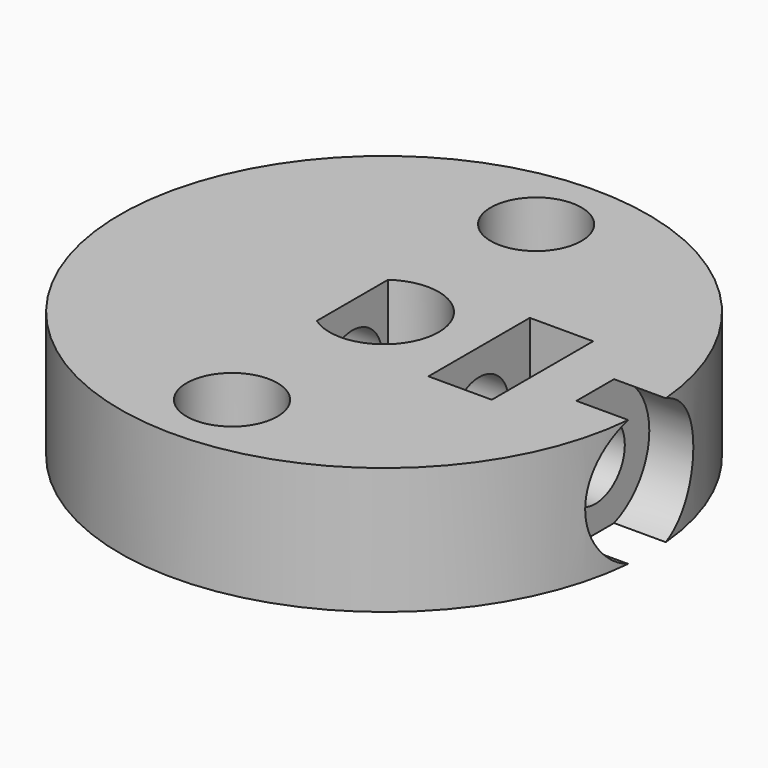
from build123d import *

# Parameters (mm, degrees)
F0_R     = 12.5
F0_R_2   = 2.15
F0_W     = 3
F0_H     = 6
F1_DEPTH = 6
F0_R_3   = 1.65
F2_DEPTH = 1
F3_R     = 1.75
F4_DEPTH = 12.5
F5_START = 10
F3_R_2   = 3.2
F5_DEPTH = 15


with BuildPart() as f1:
    # F0 (on Top) → F1 (new body)
    with BuildSketch(Plane.XY):
        Circle(F0_R)
        with Locations((0, -9)):
            Circle(F0_R_2, mode=Mode.SUBTRACT)
        with BuildLine():
            ThreePointArc((-1.5, 2.1052850163), (1.1842138743, 2.2977951388), (2.585, 0))
            ThreePointArc((2.585, 0), (1.1842138743, -2.2977951388), (-1.5, -2.1052850163))
            ThreePointArc((-1.5, -2.1052850163), (-2.585, 0), (-1.5, 2.1052850163))
        make_face(mode=Mode.SUBTRACT)
        with Locations((6, 0)):
            Rectangle(F0_W, F0_H, mode=Mode.SUBTRACT)
        with Locations((0, 9)):
            Circle(F0_R_2, mode=Mode.SUBTRACT)
        Circle(F0_R)
        with Locations((0, -9)):
            Circle(F0_R_2, mode=Mode.SUBTRACT)
        with BuildLine():
            ThreePointArc((-1.5, 2.1052850163), (1.1842138743, 2.2977951388), (2.585, 0))
            ThreePointArc((2.585, 0), (1.1842138743, -2.2977951388), (-1.5, -2.1052850163))
            ThreePointArc((-1.5, -2.1052850163), (-2.585, 0), (-1.5, 2.1052850163))
        make_face(mode=Mode.SUBTRACT)
        with Locations((6, 0)):
            Rectangle(F0_W, F0_H, mode=Mode.SUBTRACT)
        with Locations((0, 9)):
            Circle(F0_R_2, mode=Mode.SUBTRACT)
        with BuildLine():
            Line((-1.5, -2.1052850163), (-1.5, 2.1052850163))
            ThreePointArc((-1.5, 2.1052850163), (-2.585, 0), (-1.5, -2.1052850163))
        make_face()
    extrude(amount=F1_DEPTH)

    # F0 (on Top) → F2 (join)
    with BuildSketch(Plane.XY):
        with Locations((0, 9)):
            Circle(F0_R_2)
        with Locations((0, 9)):
            Circle(F0_R_3, mode=Mode.SUBTRACT)
        with Locations((0, -9)):
            Circle(F0_R_2)
        with Locations((0, -9)):
            Circle(F0_R_3, mode=Mode.SUBTRACT)
    extrude(amount=F2_DEPTH)

    # F3 (on Right) → F4 (cut, symmetric)
    with BuildSketch(Plane.YZ):
        with Locations((0, 3)):
            Circle(F3_R)
    extrude(amount=F4_DEPTH, both=True, mode=Mode.SUBTRACT)

    # F3 (on Right) → F5 (cut)
    with BuildSketch(Plane.YZ.offset(F5_START)):
        with Locations((0, 3)):
            Circle(F3_R_2)
        with Locations((0, 3)):
            Circle(F3_R, mode=Mode.SUBTRACT)
    extrude(amount=F5_DEPTH, mode=Mode.SUBTRACT)


solid = f1.part
